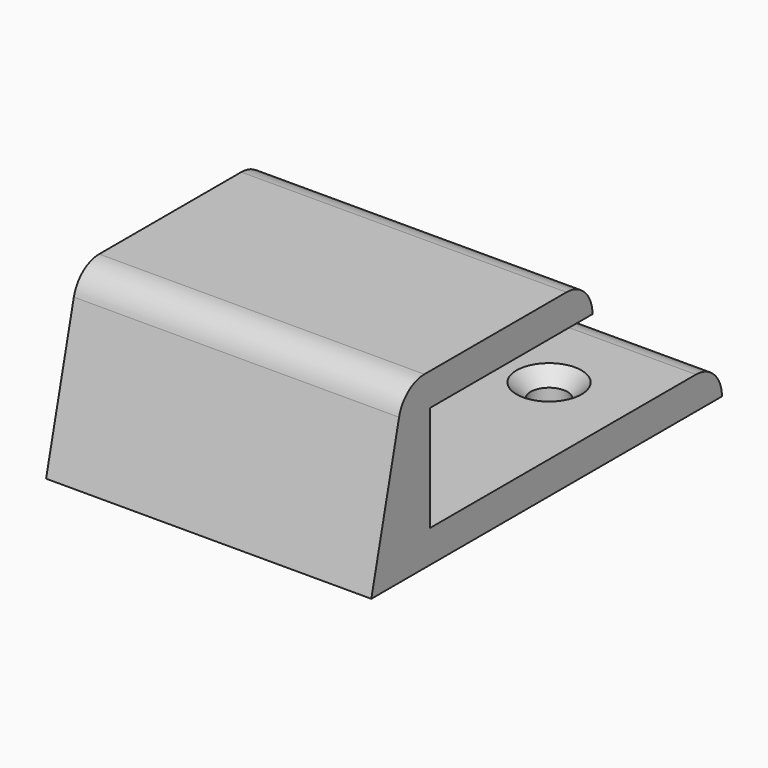
from build123d import *

# Parameters (mm, degrees)
F1_DEPTH       = 20
F3_D           = 4.5
F3_CSINK_D     = 8
F3_CSINK_ANGLE = 90


with BuildPart() as f1:
    # F0 (on Right) → F1 (new body, symmetric)
    with BuildSketch(Plane.YZ):
        with BuildLine():
            ThreePointArc((26.95, 0), (25.778427, 2.828427), (22.95, 4))
            Line((22.95, 4), (-17.95, 4))
            Line((-17.95, 4), (-17.95, 17))
            Line((-17.95, 17), (7.05, 17))
            ThreePointArc((7.05, 17), (5.878427, 19.828427), (3.05, 21))
            Line((3.05, 21), (-18.790565, 21))
            ThreePointArc((-18.790565, 21), (-21.269887, 20.138943), (-22.68179, 17.926482))
            Line((-22.68179, 17.926482), (-26.95, 0))
            Line((-26.95, 0), (26.95, 0))
        make_face()
    extrude(amount=F1_DEPTH, both=True)

    # F3 (through all)
    with Locations(Plane.XY.offset(4)):
        with Locations((-10, 12.870283), (10, 12.870283)):
            CounterSinkHole(F3_D / 2, F3_CSINK_D / 2, counter_sink_angle=F3_CSINK_ANGLE)


solid = f1.part
